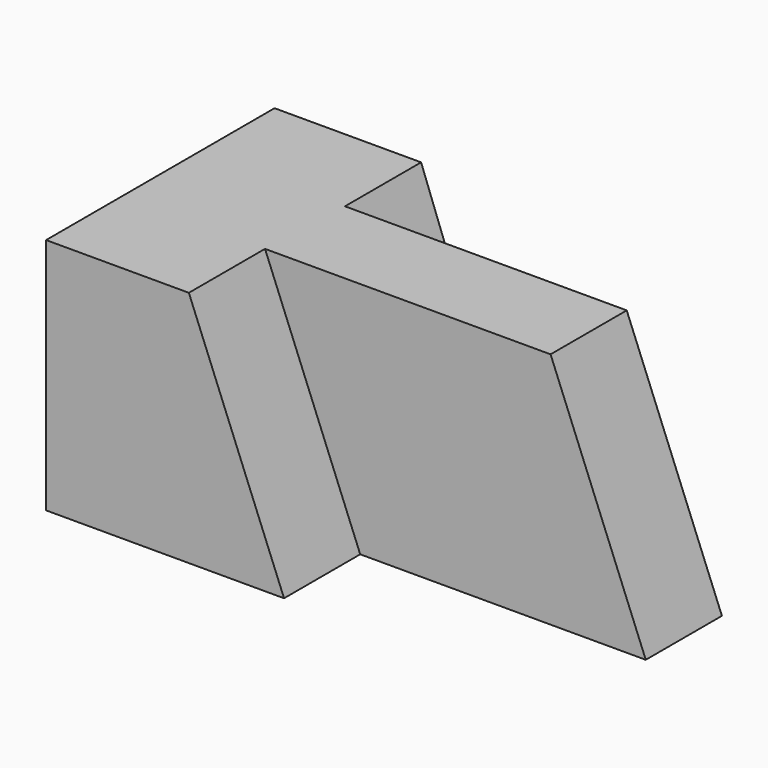
from build123d import *

# Parameters (mm, degrees)
F1_DEPTH = 31.75
F3_DEPTH = 25.4
F5_DEPTH = 12.7
F7_DEPTH = 12.7


with BuildPart() as f1:
    # F0 (on Top) → F1 (new body)
    with BuildSketch(Plane.XY):
        Polygon((0, 38.1), (0, 0), (31.75, 0), (31.75, 12.7), (69.85, 12.7), (69.85, 25.4), (31.395252, 25.4), (31.395252, 38.1), align=None)
    extrude(amount=F1_DEPTH)

    # F2 (on face) → F3 (cut)
    with BuildSketch(Plane.XZ.offset(-12.7)):
        Polygon((69.85, 31.75), (57.15, 31.75), (69.85, 0), align=None)
    extrude(amount=-F3_DEPTH, mode=Mode.SUBTRACT)

    # F4 (on face) → F5 (cut)
    with BuildSketch(Plane.XZ):
        Polygon((31.75, 31.75), (19.05, 31.75), (31.75, 0), align=None)
    extrude(amount=-F5_DEPTH, mode=Mode.SUBTRACT)

    # F6 (on face) → F7 (cut)
    with BuildSketch(Plane(origin=(0, 38.1, 0), x_dir=(-1, 0, 0), z_dir=(0, 1, 0))):
        Polygon((-31.395252, 0), (-19.556509, 31.75), (-31.395252, 31.75), align=None)
    extrude(amount=-F7_DEPTH, mode=Mode.SUBTRACT)


solid = f1.part
